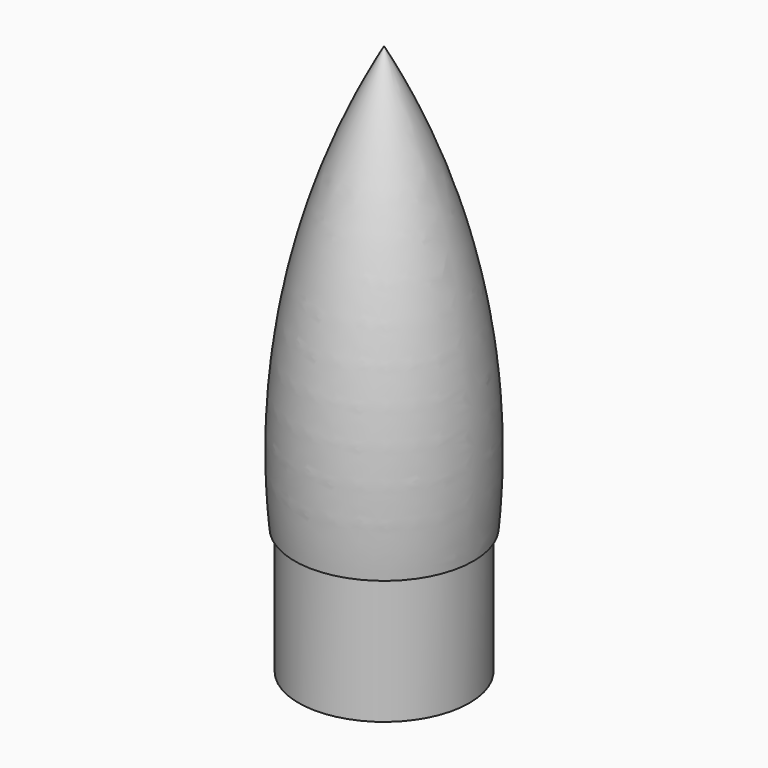
from build123d import *


with BuildPart() as f1:
    # F0 (on Front) → F1 (revolve)
    with BuildSketch(Plane.XZ):
        with BuildLine():
            Line((7.8, 39.266227), (7.8, 25.266227))
            Line((7.8, 25.266227), (8.8, 25.266227))
            Line((8.8, 25.266227), (8.8, 38.266227))
            Line((8.8, 38.266227), (9.215721, 38.266227))
            ThreePointArc((9.215721, 38.266227), (7.930689, 60.804421), (0, 81.940307))
            Line((0, 81.940307), (0, 79.845522))
            ThreePointArc((0, 79.845522), (7.045692, 60.148153), (8.3, 39.266227))
            Line((8.3, 39.266227), (7.8, 39.266227))
        make_face()
    revolve(axis=Axis((0, 0, 52.595522), (0, 0, 1)))


solid = f1.part
